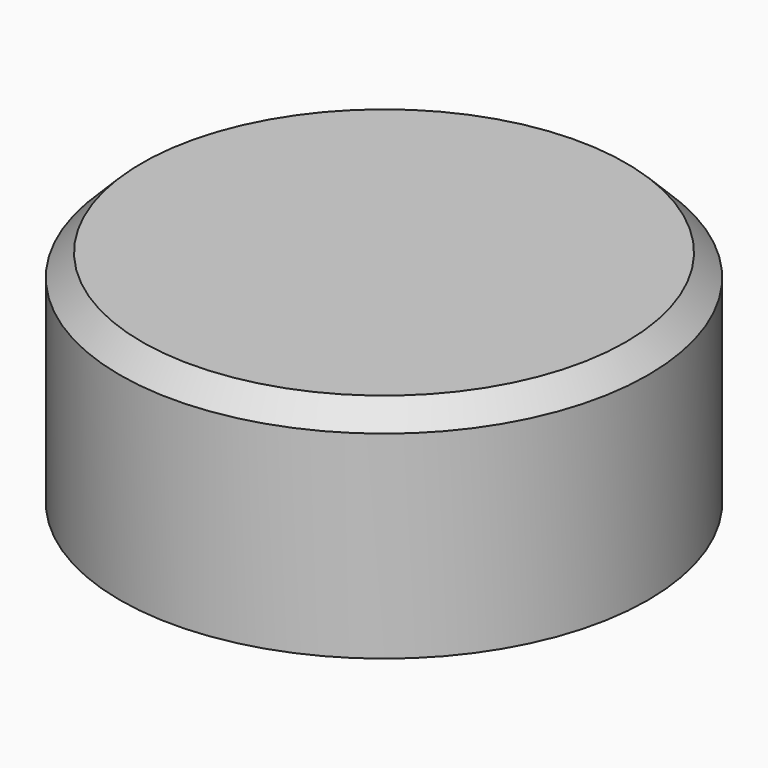
from build123d import *

# Parameters (mm, degrees)
F0_R      = 30
F1_DEPTH  = 25
F2_SIZE   = 2.5
F1_FACE_R = 27.5
F3_DEPTH  = 2


with BuildPart() as f1:
    # F0 (on Top) → F1 (new body)
    with BuildSketch(Plane.XY):
        Circle(F0_R)
    extrude(amount=F1_DEPTH)

    # F2
    f2_edges = [f1.edges().sort_by_distance(p)[0] for p in [
        (-30, 0, 25),
    ]]
    chamfer(f2_edges, length=F2_SIZE)


with BuildPart() as f3:
    # F1_face (on face) → F3 (new body)
    with BuildSketch(Plane.XY.offset(25)):
        Circle(F1_FACE_R)
    extrude(amount=-F3_DEPTH)


with BuildPart() as f1_1:
    add(f1.part)

    # F4: cut F3
    add(f3.part, mode=Mode.SUBTRACT)


solid = Compound([f3.part, f1_1.part])
